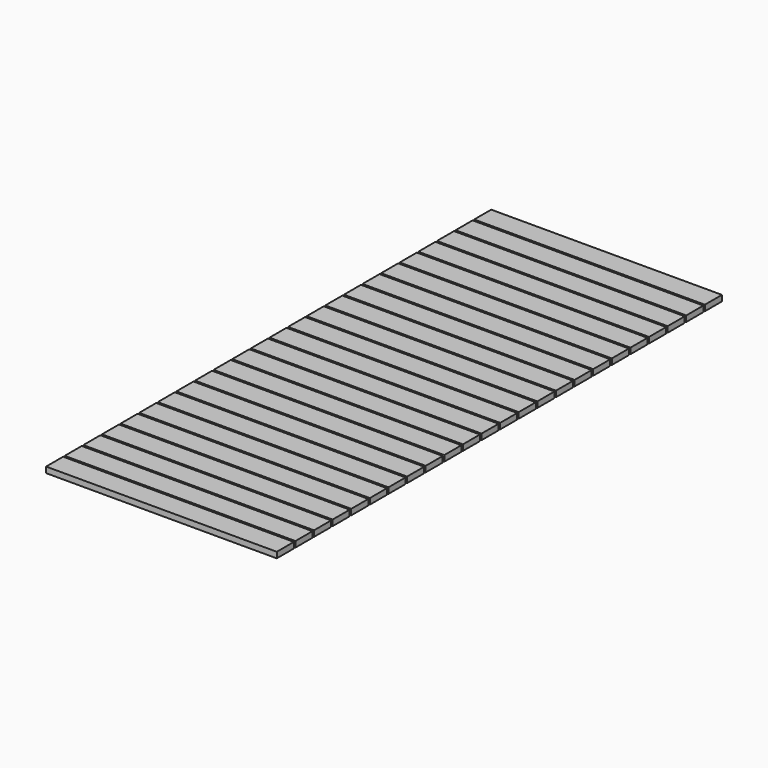
from build123d import *

# Parameters (mm, degrees)
F0_W     = 1511.3
F0_H     = 139.7
F1_DEPTH = 38.1


with BuildPart() as f1:
    # F0 (on Top) → F1 (new body)
    with BuildSketch(Plane.XY):
        with Locations((-184.310764, -546.984147)):
            Rectangle(F0_W, F0_H)
        with Locations((-184.310764, -394.584147)):
            Rectangle(F0_W, F0_H)
        with Locations((-184.310764, -242.184147)):
            Rectangle(F0_W, F0_H)
        with Locations((-184.310764, -89.784147)):
            Rectangle(F0_W, F0_H)
        with Locations((-184.310764, 62.615853)):
            Rectangle(F0_W, F0_H)
        with Locations((-184.310764, 215.015853)):
            Rectangle(F0_W, F0_H)
        with Locations((-184.310764, 367.415853)):
            Rectangle(F0_W, F0_H)
        with Locations((-184.310764, 519.815853)):
            Rectangle(F0_W, F0_H)
        with Locations((-184.310764, 672.215853)):
            Rectangle(F0_W, F0_H)
        with Locations((-184.310764, 824.615853)):
            Rectangle(F0_W, F0_H)
        with Locations((-184.310764, 977.015853)):
            Rectangle(F0_W, F0_H)
        with Locations((-184.310764, 1129.415853)):
            Rectangle(F0_W, F0_H)
        with Locations((-184.310764, 1281.815853)):
            Rectangle(F0_W, F0_H)
        with Locations((-184.310764, 1434.215853)):
            Rectangle(F0_W, F0_H)
        with Locations((-184.310764, 1586.615853)):
            Rectangle(F0_W, F0_H)
        with Locations((-184.310764, 1739.015853)):
            Rectangle(F0_W, F0_H)
        with Locations((-184.310764, 1891.415853)):
            Rectangle(F0_W, F0_H)
        with Locations((-184.310764, 2043.815853)):
            Rectangle(F0_W, F0_H)
        with Locations((-184.310764, 2196.215853)):
            Rectangle(F0_W, F0_H)
        with Locations((-184.310764, 2348.615853)):
            Rectangle(F0_W, F0_H)
        with Locations((-184.310764, 2501.015853)):
            Rectangle(F0_W, F0_H)
        with Locations((-184.310764, 2653.415853)):
            Rectangle(F0_W, F0_H)
        with Locations((-184.310764, 2805.815853)):
            Rectangle(F0_W, F0_H)
        with Locations((-184.310764, 2958.215853)):
            Rectangle(F0_W, F0_H)
    extrude(amount=F1_DEPTH)


solid = f1.part
